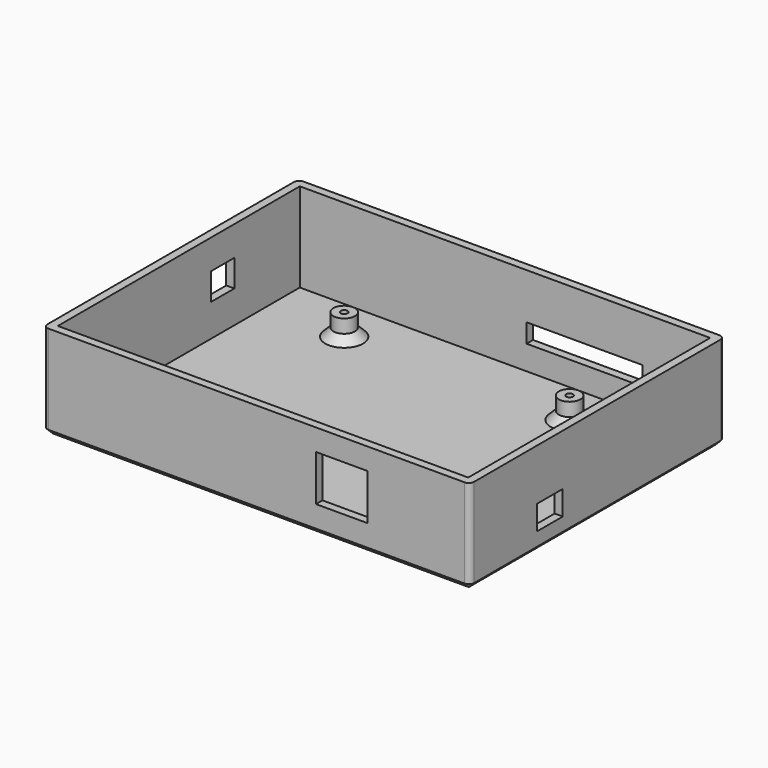
from build123d import *

# Parameters (mm, degrees)
SKETCH010_W     = 158
SKETCH010_H     = 118
PAD003_DEPTH    = 35
SKETCH011_W     = 152
SKETCH011_H     = 112
POCKET006_DEPTH = 33
SKETCH012_R     = 4
SKETCH012_R_2   = 1.25
PAD004_DEPTH    = 8
CHAMFER_SIZE    = 3
SKETCH013_W     = 10.869108
SKETCH013_H     = 10
POCKET007_DEPTH = 3
SKETCH014_W     = 19
SKETCH014_H     = 17
POCKET008_DEPTH = 3.001
SKETCH015_W     = 43
SKETCH015_H     = 7
POCKET009_DEPTH = 3.001
FILLET_R        = 2
CHAMFER001_SIZE = 2
SKETCH019_W     = 12
SKETCH019_H     = 9
POCKET012_DEPTH = 3.001


with BuildPart() as part:
    # Sketch010 (on XY_Plane176 of Origin352) → Pad003 (new body)
    with BuildSketch(Plane.XY):
        with Locations((15.5, -8.25)):
            Rectangle(SKETCH010_W, SKETCH010_H)
    extrude(amount=PAD003_DEPTH)

    # Sketch011 (on Face6 of Pad003) → Pocket006 (cut)
    with BuildSketch(Plane.XY.offset(35)):
        with Locations((15.5, -8.25)):
            Rectangle(SKETCH011_W, SKETCH011_H)
    extrude(amount=-POCKET006_DEPTH, mode=Mode.SUBTRACT)

    # Sketch012 (on Face11 of Pocket006) → Pad004 (join)
    with BuildSketch(Plane.XY.offset(2)):
        with Locations((-31.25, 31.75)):
            Circle(SKETCH012_R)
        with Locations((-31.25, 31.75)):
            Circle(SKETCH012_R_2, mode=Mode.SUBTRACT)
        with Locations((52.25, 31.75)):
            Circle(SKETCH012_R)
        with Locations((52.25, 31.75)):
            Circle(SKETCH012_R_2, mode=Mode.SUBTRACT)
        with Locations((73.75, -52.25)):
            Circle(SKETCH012_R)
        with Locations((73.75, -52.25)):
            Circle(SKETCH012_R_2, mode=Mode.SUBTRACT)
        with Locations((-31.25, -42.25)):
            Circle(SKETCH012_R)
        with Locations((-31.25, -42.25)):
            Circle(SKETCH012_R_2, mode=Mode.SUBTRACT)
    extrude(amount=PAD004_DEPTH)

    # Chamfer
    chamfer_edges = [part.edges().sort_by_distance(p)[0] for p in [
        (48.25, 31.75, 2),
        (-35.25, 31.75, 2),
        (-35.25, -42.25, 2),
        (69.75, -52.25, 2),
    ]]
    chamfer(chamfer_edges, length=CHAMFER_SIZE)

    # Sketch013 (on Face3 of Chamfer) → Pocket007 (cut)
    with BuildSketch(Plane.YZ.offset(-60.5)):
        with Locations((12.019298, 19)):
            Rectangle(SKETCH013_W, SKETCH013_H)
    extrude(amount=-POCKET007_DEPTH, mode=Mode.SUBTRACT)

    # Sketch014 (on Face5 of Pocket007) → Pocket008 (cut, through all)
    with BuildSketch(Plane(origin=(0, -64.25, 0), x_dir=(-1, 0, 0), z_dir=(0, 1, 0))):
        with Locations((-47, 18.5)):
            Rectangle(SKETCH014_W, SKETCH014_H)
    extrude(amount=-POCKET008_DEPTH, mode=Mode.SUBTRACT)

    # Sketch015 (on Face4 of Pocket008) → Pocket009 (cut, through all)
    with BuildSketch(Plane.XZ.offset(-47.75)):
        with Locations((45, 14.5)):
            Rectangle(SKETCH015_W, SKETCH015_H)
    extrude(amount=-POCKET009_DEPTH, mode=Mode.SUBTRACT)

    # Fillet
    fillet_edges = [part.edges().sort_by_distance(p)[0] for p in [
        (94.5, -67.25, 17.5),
        (-63.5, -67.25, 17.5),
        (-63.5, 50.75, 17.5),
        (94.5, 50.75, 17.5),
    ]]
    fillet(fillet_edges, radius=FILLET_R)

    # Chamfer001
    chamfer001_edges = [part.edges().sort_by_distance(p)[0] for p in [
        (94.5, -8.25, 0),
        (15.5, 50.75, 0),
        (-63.5, -8.25, 0),
        (15.5, -67.25, 0),
    ]]
    chamfer(chamfer001_edges, length=CHAMFER001_SIZE)

    # Sketch019 (on Face20 of Chamfer001) → Pocket012 (cut, through all)
    with BuildSketch(Plane(origin=(91.5, 0, 0), x_dir=(0, -1, 0), z_dir=(-1, 0, 0))):
        with Locations((30.25, 11.5)):
            Rectangle(SKETCH019_W, SKETCH019_H)
    extrude(amount=-POCKET012_DEPTH, mode=Mode.SUBTRACT)


solid = part.part
